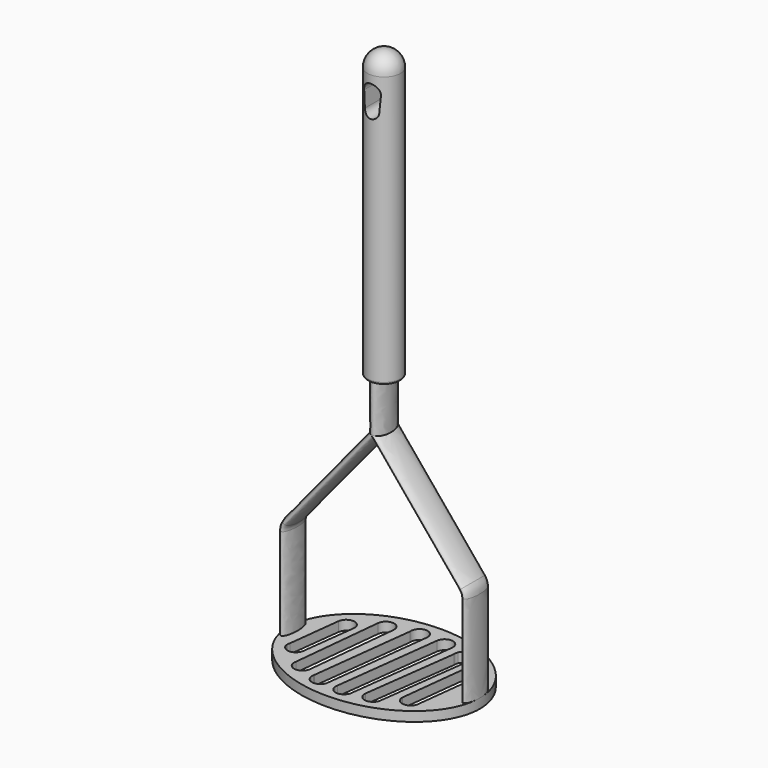
from build123d import *

# Parameters (mm, degrees)
F1_DEPTH  = 5.08
F11_DEPTH = 25.4
F12_R     = 8.763
F13_DEPTH = 152.4
F14_R     = 8.763
F16_DEPTH = 8.89
F18_DEPTH = 5.08
F19_R     = 1.27


with BuildPart() as f1:
    # F0 (on Top) → F1 (new body)
    with BuildSketch(Plane.XY):
        with BuildLine():
            add(Edge.make_bspline(
                [(50.8, 0), (50.8, 65.9911357684), (-25.4, 32.9955678842), (-101.6, 0), (-25.4, -32.9955678842), (50.8, -65.9911357684), (50.8, 0)],
                knots=[0, 0, 0, 2.0943951024, 2.0943951024, 4.1887902048, 4.1887902048, 6.2831853072, 6.2831853072, 6.2831853072], degree=2, weights=[1, 0.5, 1, 0.5, 1, 0.5, 1]))
        make_face()
        with BuildLine():
            add(Edge.make_bspline(
                [(50.8, 0), (50.8, 65.9911357684), (-25.4, 32.9955678842), (-101.6, 0), (-25.4, -32.9955678842), (50.8, -65.9911357684), (50.8, 0)],
                knots=[0, 0, 0, 2.0943951024, 2.0943951024, 4.1887902048, 4.1887902048, 6.2831853072, 6.2831853072, 6.2831853072], degree=2, weights=[1, 0.5, 1, 0.5, 1, 0.5, 1]))
        make_face()
    extrude(amount=F1_DEPTH)

    # F5: sweep along a path in F4
    with BuildLine(Plane.XZ) as f5_path:
        Line((-48.26, 5.08), (-48.26, 53.5963836629))
        ThreePointArc((-48.26, 53.5963836629), (-47.885349581, 55.7452664854), (-46.8056071228, 57.6405808513))
        Line((-46.8056071228, 57.6405808513), (0, 114.3))
    # F3 (on face) → F5 (sweep)
    with BuildSketch(Plane.XY.offset(5.08)):
        with BuildLine():
            add(Edge.make_bspline(
                [(-50.8, 0), (-50.8, -13.6589486318), (-46.99, -6.8294743159), (-43.18, 0), (-46.99, 6.8294743159), (-50.8, 13.6589486318), (-50.8, 0)],
                knots=[4.7123889804, 4.7123889804, 4.7123889804, 6.8067840828, 6.8067840828, 8.9011791852, 8.9011791852, 10.9955742876, 10.9955742876, 10.9955742876], degree=2, weights=[1, 0.5, 1, 0.5, 1, 0.5, 1]))
        make_face()
    sweep(path=f5_path.line)

    # F8: sweep along a path in F7
    with BuildLine(Plane.XZ) as f8_path:
        Line((48.26, 5.08), (48.26, 53.5963836629))
        ThreePointArc((48.26, 53.5963836629), (47.885349581, 55.7452664854), (46.8056071228, 57.6405808513))
        Line((46.8056071228, 57.6405808513), (0, 114.3))
    # F6 (on face) → F8 (sweep)
    with BuildSketch(Plane.XY.offset(5.08)):
        with BuildLine():
            add(Edge.make_bspline(
                [(50.8, 0), (50.8, 13.6381680588), (46.99, 6.8190840294), (43.18, 0), (46.99, -6.8190840294), (50.8, -13.6381680588), (50.8, 0)],
                knots=[4.7123889804, 4.7123889804, 4.7123889804, 6.8067840828, 6.8067840828, 8.9011791852, 8.9011791852, 10.9955742876, 10.9955742876, 10.9955742876], degree=2, weights=[1, 0.5, 1, 0.5, 1, 0.5, 1]))
        make_face()
    sweep(path=f8_path.line)

    # F10 (on offset) → F11 (join)
    with BuildSketch(Plane.XY.offset(113.538)):
        with BuildLine():
            add(Edge.make_bspline(
                [(3.81, 0), (3.81, 13.6381680588), (-1.905, 6.8190840294), (-7.62, 0), (-1.905, -6.8190840294), (3.81, -13.6381680588), (3.81, 0)],
                knots=[4.7123889804, 4.7123889804, 4.7123889804, 6.8067840828, 6.8067840828, 8.9011791852, 8.9011791852, 10.9955742876, 10.9955742876, 10.9955742876], degree=2, weights=[1, 0.5, 1, 0.5, 1, 0.5, 1]))
        make_face()
    extrude(amount=F11_DEPTH)

    # F17 (on face) → F18 (cut)
    with BuildSketch(Plane.XY):
        with BuildLine():
            Line((-41.3406200141, -12.6183775901), (-41.1238738446, -10.7931594215))
            ThreePointArc((-41.1238738446, -10.7931594215), (-41.3276200552, -11.6944428681), (-41.3406200141, -12.6183775901))
        make_face()
        with BuildLine():
            Line((-37.8023653825, 17.1772430327), (-41.1238738446, -10.7931594215))
            Line((-41.1238738446, -10.7931594215), (-41.3406200141, -12.6183775901))
            ThreePointArc((-41.3406200141, -12.6183775901), (-36.9966740742, -16.662831678), (-32.5046715023, -12.7834775963))
            ThreePointArc((-32.5046715023, -12.7834775963), (-32.5014034379, -12.7573560558), (-32.4982901331, -12.7312156186))
            Line((-32.4982901331, -12.7312156186), (-28.9761487652, 16.114329845))
            ThreePointArc((-28.9761487652, 16.114329845), (-32.8569215968, 21.0661928165), (-37.8023653825, 17.1772430327))
        make_face()
        with BuildLine():
            Line((-23.9823716834, 26.0526924013), (-28.8758457651, -22.1977590195))
            ThreePointArc((-28.8758457651, -22.1977590195), (-25.3273919996, -27.6499473905), (-20.1405241872, -23.7238444302))
            Line((-20.1405241872, -23.7238444302), (-15.1381568845, 25.1516109327))
            ThreePointArc((-15.1381568845, 25.1516109327), (-19.1095159143, 30.0262970306), (-23.9823716834, 26.0526924013))
        make_face()
        with BuildLine():
            Line((-15.5307360121, -26.5247592897), (-15.5788845277, -27.1104413643))
            ThreePointArc((-15.5788845277, -27.1104413643), (-11.7219239835, -32.4894956283), (-6.7938734306, -28.0708208085))
            Line((-6.7938734306, -28.0708208085), (-0.1286284469, 28.5068553885))
            ThreePointArc((-0.1286284469, 28.5068553885), (-4.5506219641, 33.4719046802), (-8.9557882009, 28.4919195837))
            Line((-8.9557882009, 28.4919195837), (-15.5307360121, -26.5247592897))
        make_face()
        with BuildLine():
            Line((4.8919636433, 28.9775295656), (-2.1356700652, -28.0931273998))
            ThreePointArc((-2.1356700652, -28.0931273998), (1.634442522, -33.5797592408), (6.6223994318, -29.1709993533))
            Line((6.6223994318, -29.1709993533), (13.7146948518, 27.8859764946))
            ThreePointArc((13.7146948518, 27.8859764946), (9.8494184058, 32.8456454797), (4.8919636433, 28.9775295656))
        make_face()
        with BuildLine():
            Line((17.9156988169, 23.8200432812), (11.3592137195, -26.3461092443))
            ThreePointArc((11.3592137195, -26.3461092443), (15.4983331028, -31.3590407924), (20.2115451608, -26.8816058044))
            Line((20.2115451608, -26.8816058044), (26.7301697541, 23.8430497095))
            ThreePointArc((26.7301697541, 23.8430497095), (23.4657735655, 28.7047881888), (18.2152030879, 26.1116639771))
            Line((18.2152030879, 26.1116639771), (17.9156988169, 23.8200432812))
        make_face()
        with BuildLine():
            ThreePointArc((18.2152030879, 26.1116639771), (17.913909112, 24.9856594498), (17.9156988169, 23.8200432812))
            Line((17.9156988169, 23.8200432812), (18.2152030879, 26.1116639771))
        make_face()
        with BuildLine():
            Line((29.612877822, 16.4723700296), (25.4890497107, -19.6977803799))
            ThreePointArc((25.4890497107, -19.6977803799), (29.9366643329, -24.2019427245), (34.3781780507, -19.6917642194))
            Line((34.3781780507, -19.6917642194), (38.4448134854, 15.4579943872))
            ThreePointArc((38.4448134854, 15.4579943872), (34.5364547998, 20.3848184189), (29.612877822, 16.4723700296))
        make_face()
    extrude(amount=F18_DEPTH, mode=Mode.SUBTRACT)


with BuildPart() as f13:
    # F12 (on face) → F13 (new body)
    with BuildSketch(Plane.XY.offset(138.938)):
        Circle(F12_R)
    extrude(amount=F13_DEPTH)

    # F14
    f14_edges = [f13.edges().sort_by_distance(p)[0] for p in [
        (-8.763, 0, 291.338),
    ]]
    fillet(f14_edges, radius=F14_R)

    # F15 (on Front) → F16 (cut, symmetric)
    with BuildSketch(Plane.XZ):
        with BuildLine():
            Line((3.7987512367, 265.4928400508), (4.4318764429, 273.7137781372))
            ThreePointArc((4.4318764429, 273.7137781372), (0, 278.5000935268), (-4.4318764429, 273.7137781372))
            Line((-4.4318764429, 273.7137781372), (-3.7987512367, 265.4928400508))
            ThreePointArc((-3.7987512367, 265.4928400508), (0, 261.9753960991), (3.7987512367, 265.4928400508))
        make_face()
    extrude(amount=F16_DEPTH, both=True, mode=Mode.SUBTRACT)

    # F19
    f19_edges = [f13.edges().sort_by_distance(p)[0] for p in [
        (-8.763, 0, 138.938),
    ]]
    fillet(f19_edges, radius=F19_R)


solid = Compound([f1.part, f13.part])
